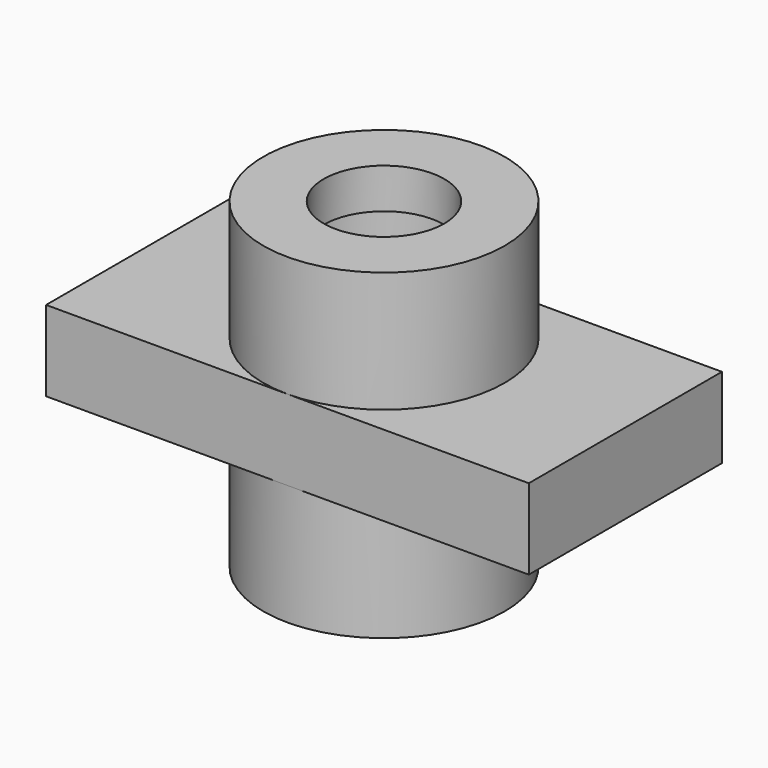
from build123d import *

# Parameters (mm, degrees)
F0_R          = 9.525
F1_DEPTH      = 6.35
F2_DEPTH      = 25.4
F2_DEPTH_BACK = 12.7
F3_R          = 19.05
F3_R_2        = 12.7
F3_R_3        = 9.525
F4_DEPTH      = 12.7
F5_DEPTH      = 6.35


with BuildPart() as f1:
    # F0 (on Top) → F1 (new body, symmetric)
    with BuildSketch(Plane.XY):
        with BuildLine():
            ThreePointArc((0, -19.05), (13.4703841816, -13.4703841816), (19.05, 0))
            ThreePointArc((19.05, 0), (13.4703841816, 13.4703841816), (0, 19.05))
            ThreePointArc((0, 19.05), (-19.05, 0), (0, -19.05))
        make_face()
        Circle(F0_R, mode=Mode.SUBTRACT)
        with BuildLine():
            ThreePointArc((0, 19.05), (13.4703841816, 13.4703841816), (19.05, 0))
            ThreePointArc((19.05, 0), (13.4703841816, -13.4703841816), (0, -19.05))
            Line((0, -19.05), (38.1, -19.05))
            Line((38.1, -19.05), (38.1, 19.05))
            Line((38.1, 19.05), (0, 19.05))
        make_face()
        with BuildLine():
            ThreePointArc((0, -19.05), (-19.05, 0), (0, 19.05))
            Line((0, 19.05), (-38.1, 19.05))
            Line((-38.1, 19.05), (-38.1, -19.05))
            Line((-38.1, -19.05), (0, -19.05))
        make_face()
    extrude(amount=F1_DEPTH, both=True)

    # F0 (on Top) → F2 (join, two sides)
    with BuildSketch(Plane.XY) as f2_sk:
        with BuildLine():
            ThreePointArc((0, -19.05), (13.4703841816, -13.4703841816), (19.05, 0))
            ThreePointArc((19.05, 0), (13.4703841816, 13.4703841816), (0, 19.05))
            ThreePointArc((0, 19.05), (-19.05, 0), (0, -19.05))
        make_face()
        Circle(F0_R, mode=Mode.SUBTRACT)
    extrude(amount=-F2_DEPTH)
    extrude(f2_sk.sketch, amount=F2_DEPTH_BACK)

    # F3 (on face) → F4 (join)
    with BuildSketch(Plane.XY.offset(12.7)):
        Circle(F3_R)
        Circle(F3_R_2, mode=Mode.SUBTRACT)
        Circle(F3_R_2)
        Circle(F3_R_3, mode=Mode.SUBTRACT)
    extrude(amount=F4_DEPTH)

    # F3 (on face) → F5 (cut)
    with BuildSketch(Plane.XY.offset(12.7)):
        Circle(F3_R_2)
        Circle(F3_R_3, mode=Mode.SUBTRACT)
    extrude(amount=F5_DEPTH, mode=Mode.SUBTRACT)


solid = f1.part
